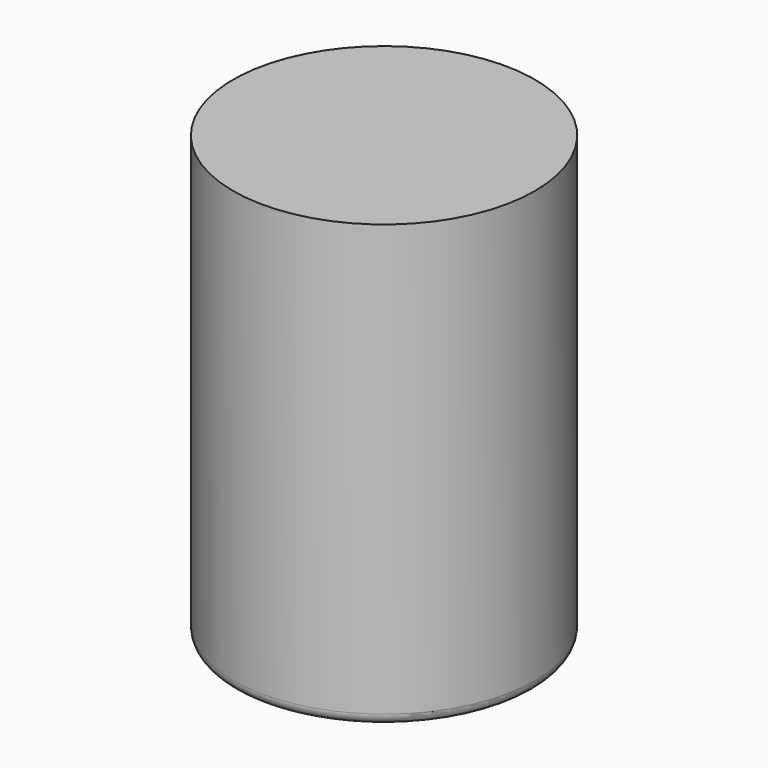
from build123d import *

# Parameters (mm, degrees)
F0_R     = 18.3671775814
F0_R_2   = 14.6879268772
F1_DEPTH = 53.8542717695
F2_DEPTH = 46.8754135072
F3_R     = 1.3703832561


with BuildPart() as f1:
    # F0 (on Top) → F1 (new body)
    with BuildSketch(Plane.XY):
        Circle(F0_R)
        Circle(F0_R_2, mode=Mode.SUBTRACT)
        Circle(F0_R_2)
    extrude(amount=F1_DEPTH)

    # F0 (on Top) → F2 (cut)
    with BuildSketch(Plane.XY):
        Circle(F0_R_2)
    extrude(amount=F2_DEPTH, mode=Mode.SUBTRACT)

    # F3
    f3_edges = [f1.edges().sort_by_distance(p)[0] for p in [
        (-14.687927, 0, 0),
        (-18.367178, 0, 0),
    ]]
    fillet(f3_edges, radius=F3_R)


solid = f1.part
